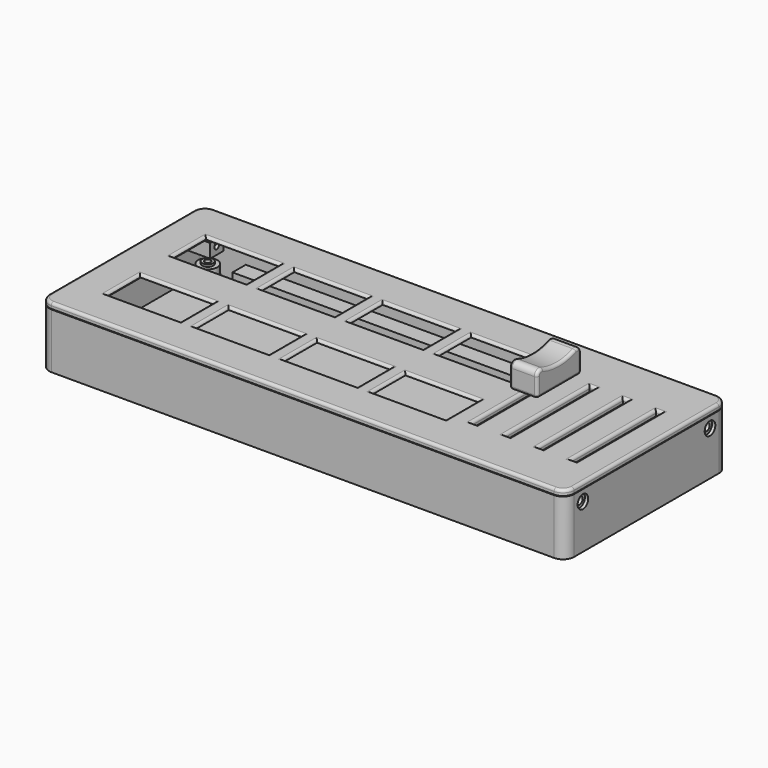
from build123d import *

# Parameters (mm, degrees)
SKETCH_W             = 190
SKETCH_H             = 73.5
PAD_DEPTH            = 25
SKETCH001_W          = 184.4
SKETCH001_H          = 67.9
POCKET_DEPTH         = 22
SKETCH002_R          = 3.5
PAD001_DEPTH         = 7
CHAMFER_SIZE         = 2
FILLET_R             = 5
SKETCH003_R          = 1.075
POCKET001_DEPTH      = 7.9
SKETCH004_W          = 9.3
SKETCH004_H          = 3.2
POCKET002_DEPTH      = 12
SKETCH005_R          = 2
SKETCH005_R_2        = 1.075
PAD002_DEPTH         = 0.8
SKETCH006_W          = 154.4
SKETCH006_H          = 3
SKETCH006_H_2        = 6
PAD003_DEPTH         = 7
FILLET001_R          = 2
SKETCH007_W          = 201.483421
SKETCH007_H          = 16.577194
POCKET003_DEPTH      = 76
FILLET002_R          = 4
SKETCH008_R          = 2.4
POCKET004_DEPTH      = 1.2
SKETCH009_R          = 1.35
POCKET005_DEPTH      = 200
SKETCH010_R          = 2.4
SKETCH010_W          = 12.3
SKETCH010_H          = 6.2
POCKET006_DEPTH      = 1.2
FILLET003_R          = 3
SKETCH011_W          = 190
SKETCH011_H          = 73.5
PAD004_DEPTH         = 2
FILLET004_R          = 4
SKETCH012_W          = 26.8
SKETCH012_H          = 15.2
SKETCH012_W_2        = 2
SKETCH012_H_2        = 38.4
POCKET007_DEPTH      = 5
SKETCH013_W          = 8.5
SKETCH013_H          = 6
PAD005_DEPTH         = 7
SKETCH014_R          = 1.05
POCKET008_DEPTH      = 200
FILLET005_R          = 1
CHAMFER001_SIZE      = 2
SKETCH015_W          = 180
SKETCH015_H          = 2.9
SKETCH015_H_2        = 5.9
PAD006_DEPTH         = 4
POCKET009_DEPTH      = 200
CHAMFER002_SIZE      = 2
SKETCH019_W          = 124.5
SKETCH019_H          = 59.8
POCKET012_DEPTH      = 1
POCKET012_DEPTH_BACK = 100
SKETCH016_W          = 10
SKETCH016_H          = 20
PAD007_DEPTH         = 10
POCKET010_DEPTH      = 11
FILLET006_R          = 2
SKETCH018_W          = 1.15
SKETCH018_H          = 4.15
POCKET011_DEPTH      = 5.6
FILLET007_R          = 1


with BuildPart() as base:
    # Sketch → Pad (new body)
    with BuildSketch(Plane.XY):
        Rectangle(SKETCH_W, SKETCH_H)
    extrude(amount=PAD_DEPTH)

    # Sketch001 (on Face6 of Pad) → Pocket (cut)
    with BuildSketch(Plane.XY.offset(25)):
        Rectangle(SKETCH001_W, SKETCH001_H)
    extrude(amount=-POCKET_DEPTH, mode=Mode.SUBTRACT)

    # Sketch002 (on Face11 of Pocket) → Pad001 (join)
    with BuildSketch(Plane.XY.offset(3)):
        with Locations((-86, 27.75)):
            Circle(SKETCH002_R)
        with Locations((86, 27.75)):
            Circle(SKETCH002_R)
        with Locations((-86, -27.75)):
            Circle(SKETCH002_R)
        with Locations((86, -27.75)):
            Circle(SKETCH002_R)
    extrude(amount=PAD001_DEPTH)

    # Chamfer
    chamfer_edges = [base.edges().sort_by_distance(p)[0] for p in [
        (-89.5, 27.75, 3),
        (-89.5, -27.75, 3),
        (82.5, 27.75, 3),
        (82.5, -27.75, 3),
    ]]
    chamfer(chamfer_edges, length=CHAMFER_SIZE)

    # Fillet
    fillet_edges = [base.edges().sort_by_distance(p)[0] for p in [
        (-89.5, -27.75, 5),
        (-89.5, 27.75, 5),
        (82.5, -27.75, 5),
        (82.5, 27.75, 5),
    ]]
    fillet(fillet_edges, radius=FILLET_R)

    # Sketch003 (on Face12 of Fillet) → Pocket001 (cut)
    with BuildSketch(Plane.XY.offset(10)):
        with Locations((-86, 27.75)):
            Circle(SKETCH003_R)
        with Locations((-86, -27.75)):
            Circle(SKETCH003_R)
        with Locations((86, 27.75)):
            Circle(SKETCH003_R)
        with Locations((86, -27.75)):
            Circle(SKETCH003_R)
    extrude(amount=-POCKET001_DEPTH, mode=Mode.SUBTRACT)

    # Sketch004 (on Face19 of Pocket001) → Pocket002 (cut)
    with BuildSketch(Plane(origin=(-95, 0, 0), x_dir=(0, -1, 0), z_dir=(-1, 0, 0))):
        with Locations((17.9, 4.4)):
            Rectangle(SKETCH004_W, SKETCH004_H)
    extrude(amount=-POCKET002_DEPTH, mode=Mode.SUBTRACT)

    # Sketch005 (on Face15 of Pocket002) → Pad002 (join)
    with BuildSketch(Plane.XY.offset(10)):
        with Locations((-86, 27.75)):
            Circle(SKETCH005_R)
        with Locations((-86, 27.75)):
            Circle(SKETCH005_R_2, mode=Mode.SUBTRACT)
        with Locations((-86, -27.75)):
            Circle(SKETCH005_R)
        with Locations((-86, -27.75)):
            Circle(SKETCH005_R_2, mode=Mode.SUBTRACT)
        with Locations((86, -27.75)):
            Circle(SKETCH005_R)
        with Locations((86, -27.75)):
            Circle(SKETCH005_R_2, mode=Mode.SUBTRACT)
        with Locations((86, 27.75)):
            Circle(SKETCH005_R)
        with Locations((86, 27.75)):
            Circle(SKETCH005_R_2, mode=Mode.SUBTRACT)
    extrude(amount=PAD002_DEPTH)

    # Sketch006 (on Face11 of Pad002) → Pad003 (join)
    with BuildSketch(Plane.XY.offset(3)):
        with Locations((0, -32.45)):
            Rectangle(SKETCH006_W, SKETCH006_H)
        with Locations((0, 30.95)):
            Rectangle(SKETCH006_W, SKETCH006_H_2)
    extrude(amount=PAD003_DEPTH)

    # Fillet001
    fillet001_edges = [base.edges().sort_by_distance(p)[0] for p in [
        (-92.2, 33.95, 14),
        (92.2, 33.95, 14),
        (92.2, -33.95, 14),
        (-92.2, -33.95, 14),
    ]]
    fillet(fillet001_edges, radius=FILLET001_R)

    # Sketch007 (on Face35 of Fillet001) → Pocket003 (cut)
    with BuildSketch(Plane.XZ.offset(36.75)):
        with Locations((2.91454, 28.288597)):
            Rectangle(SKETCH007_W, SKETCH007_H)
    extrude(amount=-POCKET003_DEPTH, mode=Mode.SUBTRACT)

    # Fillet002
    fillet002_edges = [base.edges().sort_by_distance(p)[0] for p in [
        (-95, -36.75, 10),
        (-95, 36.75, 10),
        (95, -36.75, 10),
        (95, 36.75, 10),
    ]]
    fillet(fillet002_edges, radius=FILLET002_R)

    # Sketch008 (on Face5 of Fillet002) → Pocket004 (cut)
    with BuildSketch(Plane.YZ.offset(95)):
        with Locations((-28.75, 16)):
            Circle(SKETCH008_R)
        with Locations((28.75, 16)):
            Circle(SKETCH008_R)
    extrude(amount=-POCKET004_DEPTH, mode=Mode.SUBTRACT)

    # Sketch009 (on Face33 of Pocket004) → Pocket005 (cut)
    with BuildSketch(Plane.YZ.offset(93.8)):
        with Locations((-28.75, 16)):
            Circle(SKETCH009_R)
        with Locations((28.75, 16)):
            Circle(SKETCH009_R)
    extrude(amount=-POCKET005_DEPTH, mode=Mode.SUBTRACT)

    # Sketch010 (on Face6 of Pocket005) → Pocket006 (cut)
    with BuildSketch(Plane(origin=(-95, 0, 0), x_dir=(0, -1, 0), z_dir=(-1, 0, 0))):
        with Locations((28.75, 16)):
            Circle(SKETCH010_R)
        with Locations((-28.75, 16)):
            Circle(SKETCH010_R)
        with Locations((17.9, 4.4)):
            Rectangle(SKETCH010_W, SKETCH010_H)
    extrude(amount=-POCKET006_DEPTH, mode=Mode.SUBTRACT)

    # Fillet003
    fillet003_edges = [base.edges().sort_by_distance(p)[0] for p in [
        (-94.4, -11.75, 7.5),
        (-94.4, -24.05, 7.5),
        (-94.4, -11.75, 1.3),
        (-94.4, -24.05, 1.3),
    ]]
    fillet(fillet003_edges, radius=FILLET003_R)


with BuildPart() as lid:
    # Sketch011 → Pad004 (new body)
    with BuildSketch(Plane.XY):
        Rectangle(SKETCH011_W, SKETCH011_H)
    extrude(amount=PAD004_DEPTH)

    # Fillet004
    fillet004_edges = [lid.edges().sort_by_distance(p)[0] for p in [
        (95, -36.75, 1),
        (95, 36.75, 1),
        (-95, 36.75, 1),
        (-95, -36.75, 1),
    ]]
    fillet(fillet004_edges, radius=FILLET004_R)

    # Sketch012 (on Face5 of Fillet004) → Pocket007 (cut)
    with BuildSketch(Plane.XY.offset(2)):
        with Locations((-68.8, 14.55)):
            Rectangle(SKETCH012_W, SKETCH012_H)
        with Locations((-68.8, -15.15)):
            Rectangle(SKETCH012_W, SKETCH012_H)
        with Locations((-36.8, 14.55)):
            Rectangle(SKETCH012_W, SKETCH012_H)
        with Locations((-36.8, -15.15)):
            Rectangle(SKETCH012_W, SKETCH012_H)
        with Locations((-4.8, 14.55)):
            Rectangle(SKETCH012_W, SKETCH012_H)
        with Locations((27.2, 14.55)):
            Rectangle(SKETCH012_W, SKETCH012_H)
        with Locations((-4.8, -15.15)):
            Rectangle(SKETCH012_W, SKETCH012_H)
        with Locations((27.2, -15.15)):
            Rectangle(SKETCH012_W, SKETCH012_H)
        with Locations((84.5, -0.55)):
            Rectangle(SKETCH012_W_2, SKETCH012_H_2)
        with Locations((72.5, -0.55)):
            Rectangle(SKETCH012_W_2, SKETCH012_H_2)
        with Locations((60.5, -0.55)):
            Rectangle(SKETCH012_W_2, SKETCH012_H_2)
        with Locations((48.5, -0.55)):
            Rectangle(SKETCH012_W_2, SKETCH012_H_2)
    extrude(amount=-POCKET007_DEPTH, mode=Mode.SUBTRACT)

    # Sketch013 (on Face2 of Pocket007) → Pad005 (join)
    with BuildSketch(Plane(origin=(0, 0, 0), x_dir=(1, 0, 0), z_dir=(0, 0, -1))):
        with Locations((-87.8, 28.75)):
            Rectangle(SKETCH013_W, SKETCH013_H)
        with Locations((-87.8, -28.75)):
            Rectangle(SKETCH013_W, SKETCH013_H)
        with Locations((87.8, 28.75)):
            Rectangle(SKETCH013_W, SKETCH013_H)
        with Locations((87.8, -28.75)):
            Rectangle(SKETCH013_W, SKETCH013_H)
    extrude(amount=PAD005_DEPTH)

    # Sketch014 (on Face71 of Pad005) → Pocket008 (cut)
    with BuildSketch(Plane(origin=(-92.05, 0, 0), x_dir=(0, -1, 0), z_dir=(-1, 0, 0))):
        with Locations((-28.75, -4.2)):
            Circle(SKETCH014_R)
        with Locations((28.75, -4.2)):
            Circle(SKETCH014_R)
    extrude(amount=-POCKET008_DEPTH, mode=Mode.SUBTRACT)

    # Fillet005
    fillet005_edges = [lid.edges().sort_by_distance(p)[0] for p in [
        (0, 36.75, 2),
        (-93.828427, 35.578427, 2),
        (93.828427, 35.578427, 2),
        (-95, 0, 2),
        (95, 0, 2),
        (-93.828427, -35.578427, 2),
        (93.828427, -35.578427, 2),
        (0, -36.75, 2),
        (27.2, -7.55, 2),
        (40.6, -15.15, 2),
        (27.2, -22.75, 2),
        (13.8, -15.15, 2),
        (84.5, 18.65, 2),
        (85.5, -0.55, 2),
        (84.5, -19.75, 2),
        (83.5, -0.55, 2),
        (72.5, 18.65, 2),
        (73.5, -0.55, 2),
        (72.5, -19.75, 2),
        (71.5, -0.55, 2),
        (61.5, -0.55, 2),
        (60.5, -19.75, 2),
        (59.5, -0.55, 2),
        (60.5, 18.65, 2),
        (49.5, -0.55, 2),
        (48.5, -19.75, 2),
        (47.5, -0.55, 2),
        (48.5, 18.65, 2),
        (-4.8, -7.55, 2),
        (8.6, -15.15, 2),
        (-4.8, -22.75, 2),
        (-18.2, -15.15, 2),
        (-36.8, -7.55, 2),
        (-23.4, -15.15, 2),
        (-36.8, -22.75, 2),
        (-50.2, -15.15, 2),
        (-68.8, -7.55, 2),
        (-55.4, -15.15, 2),
        (-68.8, -22.75, 2),
        (-82.2, -15.15, 2),
        (27.2, 22.15, 2),
        (40.6, 14.55, 2),
        (27.2, 6.95, 2),
        (13.8, 14.55, 2),
        (-4.8, 22.15, 2),
        (8.6, 14.55, 2),
        (-4.8, 6.95, 2),
        (-18.2, 14.55, 2),
        (-36.8, 22.15, 2),
        (-23.4, 14.55, 2),
        (-36.8, 6.95, 2),
        (-50.2, 14.55, 2),
        (-68.8, 22.15, 2),
        (-55.4, 14.55, 2),
        (-68.8, 6.95, 2),
        (-82.2, 14.55, 2),
    ]]
    fillet(fillet005_edges, radius=FILLET005_R)

    # Chamfer001
    chamfer001_edges = [lid.edges().sort_by_distance(p)[0] for p in [
        (-87.8, 25.75, 0),
        (-83.55, 28.75, 0),
        (-87.8, -25.75, 0),
        (-83.55, -28.75, 0),
        (87.8, 25.75, 0),
        (83.55, 28.75, 0),
        (87.8, -25.75, 0),
        (83.55, -28.75, 0),
    ]]
    chamfer(chamfer001_edges, length=CHAMFER001_SIZE)

    # Sketch015 (on Face1 of Chamfer001) → Pad006 (join)
    with BuildSketch(Plane(origin=(0, 0, 0), x_dir=(1, 0, 0), z_dir=(0, 0, -1))):
        with Locations((0, 32.4)):
            Rectangle(SKETCH015_W, SKETCH015_H)
        with Locations((0, -30.9)):
            Rectangle(SKETCH015_W, SKETCH015_H_2)
    extrude(amount=PAD006_DEPTH)

    # Pad006 Face145 → Pocket009 (cut)
    with BuildSketch(Plane(origin=(-90, 28.798068, -3.634733), x_dir=(0, 1, 0), z_dir=(-1, 0, 0))):
        with BuildLine():
            ThreePointArc((-0.848068, -0.114807), (0.218263, -0.450395), (0.982708, 0.365267))
            Line((0.982708, 0.365267), (-0.848068, 0.365267))
            Line((-0.848068, 0.365267), (-0.848068, -0.114807))
        make_face()
    extrude(amount=-POCKET009_DEPTH, mode=Mode.SUBTRACT)

    # Chamfer002
    chamfer002_edges = [lid.edges().sort_by_distance(p)[0] for p in [
        (0, 27.95, 0),
        (0, -30.95, 0),
    ]]
    chamfer(chamfer002_edges, length=CHAMFER002_SIZE)

    # Sketch019 (on Face1 of Chamfer002) → Pocket012 (cut, two sides)
    with BuildSketch(Plane(origin=(0, 0, 0), x_dir=(1, 0, 0), z_dir=(0, 0, -1))) as pocket012_sk:
        with Locations((-20.95, 1.25)):
            Rectangle(SKETCH019_W, SKETCH019_H)
    extrude(amount=-POCKET012_DEPTH, mode=Mode.SUBTRACT)
    extrude(pocket012_sk.sketch, amount=POCKET012_DEPTH_BACK, mode=Mode.SUBTRACT)


with BuildPart() as lid_1:
    # Body001 placement: moved
    add(lid.part.moved(Location((0, 0, 20.2))))


with BuildPart() as slider:
    # Sketch016 → Pad007 (new body)
    with BuildSketch(Plane.XY):
        with Locations((0, 12.392011)):
            Rectangle(SKETCH016_W, SKETCH016_H)
    extrude(amount=PAD007_DEPTH)

    # Sketch017 (on Face2 of Pad007) → Pocket010 (cut)
    with BuildSketch(Plane.YZ.offset(5)):
        with BuildLine():
            ThreePointArc((2.392011, 10), (12.392011, 7.40874), (22.392011, 10))
            Line((2.392011, 10), (22.392011, 10))
        make_face()
    extrude(amount=-POCKET010_DEPTH, mode=Mode.SUBTRACT)

    # Fillet006
    fillet006_edges = [slider.edges().sort_by_distance(p)[0] for p in [
        (0, 2.392011, 10),
        (0, 22.392011, 10),
    ]]
    fillet(fillet006_edges, radius=FILLET006_R)

    # Sketch018 (on Face4 of Fillet006) → Pocket011 (cut)
    with BuildSketch(Plane(origin=(0, 0, 0), x_dir=(1, 0, 0), z_dir=(0, 0, -1))):
        with Locations((0, -12.392011)):
            Rectangle(SKETCH018_W, SKETCH018_H)
    extrude(amount=-POCKET011_DEPTH, mode=Mode.SUBTRACT)

    # Fillet007
    fillet007_edges = [slider.edges().sort_by_distance(p)[0] for p in [
        (-5, 22.392011, 3.436324),
        (-5, 21.528568, 8.51832),
        (-5, 12.392011, 0),
        (-5, 12.392011, 7.40874),
        (-5, 2.392011, 3.436324),
        (-5, 3.255454, 8.51832),
        (5, 2.392011, 3.436324),
        (5, 3.255454, 8.51832),
        (5, 12.392011, 0),
        (5, 12.392011, 7.40874),
        (5, 22.392011, 3.436324),
        (5, 21.528568, 8.51832),
        (0, 2.392011, 0),
        (0, 22.392011, 0),
    ]]
    fillet(fillet007_edges, radius=FILLET007_R)


with BuildPart() as slider_1:
    # Body002 placement: moved
    add(slider.part.moved(Location((48.5, 0, 22.5))))


solid = Compound([base.part, lid_1.part, slider_1.part])
